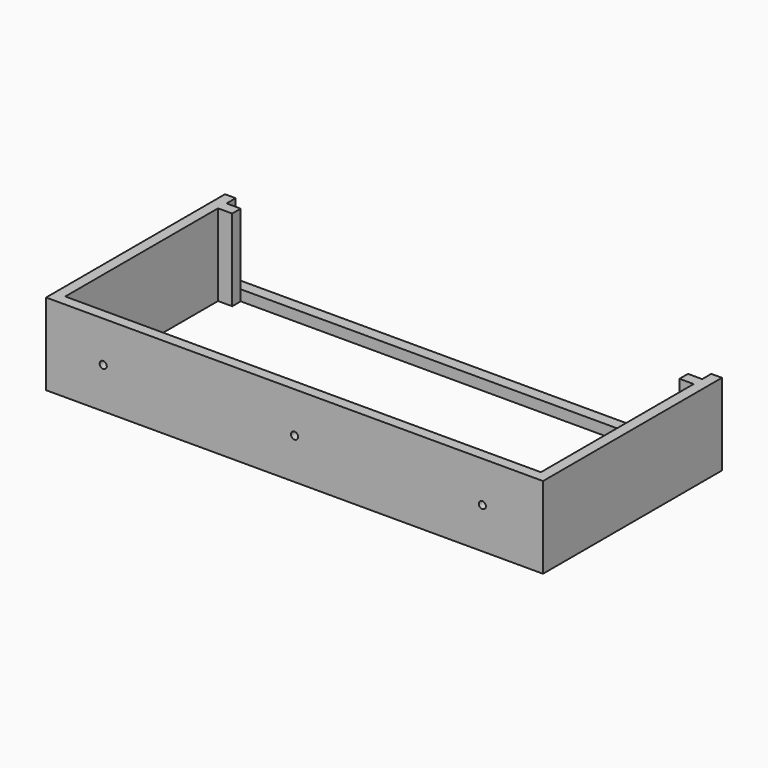
from build123d import *

# Parameters (mm, degrees)
F0_R      = 8
F1_DEPTH  = 3
F2_W      = 3
F2_H      = 3
F2_W_2    = 134
F3_DEPTH  = 20
F4_W      = 3
F4_H      = 20
F5_DEPTH  = 134
F6_W      = 126
F6_H      = 3
F7_DEPTH  = 40
F8_R      = 1.5
F9_DEPTH  = 3
F10_R     = 8
F12_DEPTH = 40
F13_R     = 1
F14_DEPTH = 3


with BuildPart() as f1:
    # F0 (on Top) → F1 (new body)
    with BuildSketch(Plane.XY):
        Polygon((-60, 33.034884), (-80, 33.034884), (-80, 18.034884), (-80, 0.034884), (-80, -2.965116), (-80, -17.965116), (-80, -29.965116), (60, -29.965116), (60, -24.965116), (60, -14.965116), (60, -9.965116), (60, -4.965116), (60, 0.034884), (60, 18.034884), (60, 33.034884), (40, 33.034884), (20, 33.034884), (0, 33.034884), (-20, 33.034884), (-40, 33.034884), align=None)
        with Locations((25, -0.468963)):
            Circle(F0_R, mode=Mode.SUBTRACT)
        with Locations((-45, 1.034884)):
            Circle(F0_R, mode=Mode.SUBTRACT)
    extrude(amount=F1_DEPTH)

    # F2 (on face) → F3 (join)
    with BuildSketch(Plane.XY.offset(3)):
        with Locations((-78.5, -28.465116)):
            Rectangle(F2_W, F2_H)
        with Locations((-10, -28.465116)):
            Rectangle(F2_W_2, F2_H)
        Polygon((-80, 30.034884), (-80, -26.965116), (-77, -26.965116), (-77, 33.034884), (-80, 33.034884), align=None)
        with Locations((58.5, -28.465116)):
            Rectangle(F2_W, F2_H)
        Polygon((57, 33.034884), (57, -26.965116), (60, -26.965116), (60, 30.034884), (60, 33.034884), align=None)
    extrude(amount=F3_DEPTH)

    # F4 (on face) → F5 (join)
    with BuildSketch(Plane.YZ.offset(-77)):
        with Locations((28.334884, 13)):
            Rectangle(F4_W, F4_H)
    extrude(amount=F5_DEPTH)

    # F6 (on face) → F7 (cut)
    with BuildSketch(Plane.XY.offset(23)):
        with Locations((-10, 28.334884)):
            Rectangle(F6_W, F6_H)
    extrude(amount=-F7_DEPTH, mode=Mode.SUBTRACT)

    # F8 (on face) → F9 (cut)
    with BuildSketch(Plane(origin=(0, -26.965116, 0), x_dir=(-1, 0, 0), z_dir=(0, 1, 0))):
        with Locations((47, 26.988985)):
            Circle(F8_R)
        with Locations((-27, 26.988985)):
            Circle(F8_R)
        with Locations((10, 26.988985)):
            Circle(F8_R)
    extrude(amount=-F9_DEPTH, mode=Mode.SUBTRACT)

    # F10 (on face) → F12 (cut)
    with BuildSketch(Plane.XY.offset(3)):
        Polygon((53, 26.834884), (-73, 26.834884), (-77, 26.834884), (-77, -26.965116), (57, -26.965116), (57, 26.834884), align=None)
        with Locations((25, -0.468963)):
            Circle(F10_R, mode=Mode.SUBTRACT)
        with Locations((-45, 1.034884)):
            Circle(F10_R, mode=Mode.SUBTRACT)
    extrude(amount=-F12_DEPTH, mode=Mode.SUBTRACT)

    # F13 (on face) → F14 (cut)
    with BuildSketch(Plane.XZ.offset(29.965116)):
        with Locations((-63.899942, 11.5)):
            Circle(F13_R)
        with Locations((-10, 11.5)):
            Circle(F13_R)
        with Locations((42.899329, 11.5)):
            Circle(F13_R)
    extrude(amount=-F14_DEPTH, mode=Mode.SUBTRACT)


solid = f1.part
